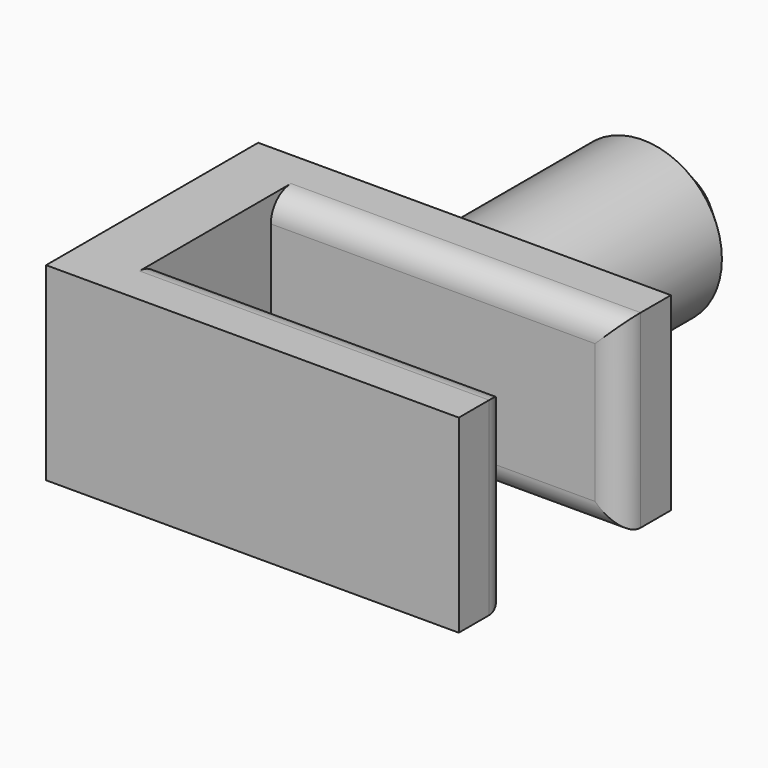
from build123d import *

# Parameters (mm, degrees)
F1_DEPTH = 7.5
F2_R     = 6.272579
F3_DEPTH = 20
F4_SIZE  = 3
F5_R     = 2


with BuildPart() as f1:
    # F0 (on Top) → F1 (new body, symmetric)
    with BuildSketch(Plane.XY):
        Polygon((15.831904, -5), (15.831904, 0), (-16.857163, 0), (-16.857163, -21), (15.831904, -21), (15.831904, -16), (-11.857163, -16), (-11.857163, -5), align=None)
    extrude(amount=F1_DEPTH, both=True)

    # F2 (on Front) → F3 (join)
    with BuildSketch(Plane.XZ):
        Circle(F2_R)
    extrude(amount=-F3_DEPTH)

    # F4
    f4_edges = [f1.edges().sort_by_distance(p)[0] for p in [
        (-6.272579, 20, 0),
    ]]
    chamfer(f4_edges, length=F4_SIZE)

    # F5
    f5_edges = [f1.edges().sort_by_distance(p)[0] for p in [
        (1.98737, -5, -7.5),
        (1.98737, -16, -7.5),
        (15.831904, -16, 0),
        (15.831904, -5, 0),
        (1.98737, -5, 7.5),
        (1.98737, -16, 7.5),
    ]]
    fillet(f5_edges, radius=F5_R)


solid = f1.part
